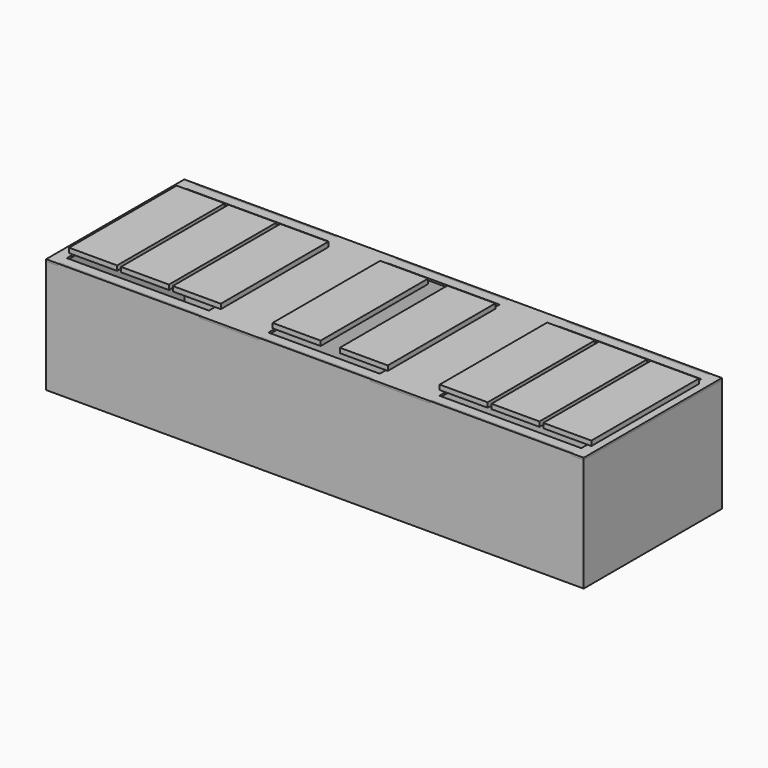
from build123d import *

# Parameters (mm, degrees)
F0_W     = 2800
F0_H     = 900
F0_W_2   = 2780
F0_H_2   = 880
F1_DEPTH = 600
F2_W     = 2800
F2_H     = 900
F3_DEPTH = 10
F4_W     = 740
F4_H     = 780
F4_W_2   = 580
F4_W_3   = 310
F4_H_2   = 10
F4_W_4   = 60
F5_DEPTH = 10
F6_W     = 250
F6_H     = 700
F7_DEPTH = 25


with BuildPart() as f1:
    # F0 (on Top) → F1 (new body)
    with BuildSketch(Plane.XY):
        Rectangle(F0_W, F0_H)
        Rectangle(F0_W_2, F0_H_2, mode=Mode.SUBTRACT)
    extrude(amount=F1_DEPTH)

    # F2 (on face) → F3 (join)
    with BuildSketch(Plane(origin=(0, 0, 0), x_dir=(1, 0, 0), z_dir=(0, 0, -1))):
        Rectangle(F2_W, F2_H)
    extrude(amount=-F3_DEPTH)


with BuildPart() as f5:
    # F4 (on face) → F5 (new body)
    with BuildSketch(Plane.XY.offset(600)):
        Polygon((-1400, 450), (-1400, -450), (-1340, -450), (-1340, -440), (-600, -440), (-290, -440), (290, -440), (600, -440), (1340, -440), (1400, -440), (1400, -390), (1400, 390), (1400, 440), (1340, 440), (600, 440), (290, 440), (-290, 440), (-600, 440), (-1340, 440), (-1340, 450), align=None)
        with Locations((-970, 0)):
            Rectangle(F4_W, F4_H, mode=Mode.SUBTRACT)
        Rectangle(F4_W_2, F4_H, mode=Mode.SUBTRACT)
        with Locations((970, 0)):
            Rectangle(F4_W, F4_H, mode=Mode.SUBTRACT)
        with Locations((-445, -445)):
            Rectangle(F4_W_3, F4_H_2)
        with Locations((-445, 445)):
            Rectangle(F4_W_3, F4_H_2)
        with Locations((445, -445)):
            Rectangle(F4_W_3, F4_H_2)
        with Locations((445, 445)):
            Rectangle(F4_W_3, F4_H_2)
        with Locations((1370, -445)):
            Rectangle(F4_W_4, F4_H_2)
        with Locations((1370, 445)):
            Rectangle(F4_W_4, F4_H_2)
    extrude(amount=-F5_DEPTH)


with BuildPart() as f7:
    # F6 (on face) → F7 (new body)
    with BuildSketch(Plane.XY.offset(600)):
        with Locations((-1235, 0)):
            Rectangle(F6_W, F6_H)
        with Locations((-965, 0)):
            Rectangle(F6_W, F6_H)
        with Locations((-695, 0)):
            Rectangle(F6_W, F6_H)
        with Locations((-175, 0)):
            Rectangle(F6_W, F6_H)
        with Locations((175, 0)):
            Rectangle(F6_W, F6_H)
        with Locations((965, 0)):
            Rectangle(F6_W, F6_H)
        with Locations((695, 0)):
            Rectangle(F6_W, F6_H)
        with Locations((1235, 0)):
            Rectangle(F6_W, F6_H)
    extrude(amount=F7_DEPTH)


solid = Compound([f1.part, f5.part, f7.part])
